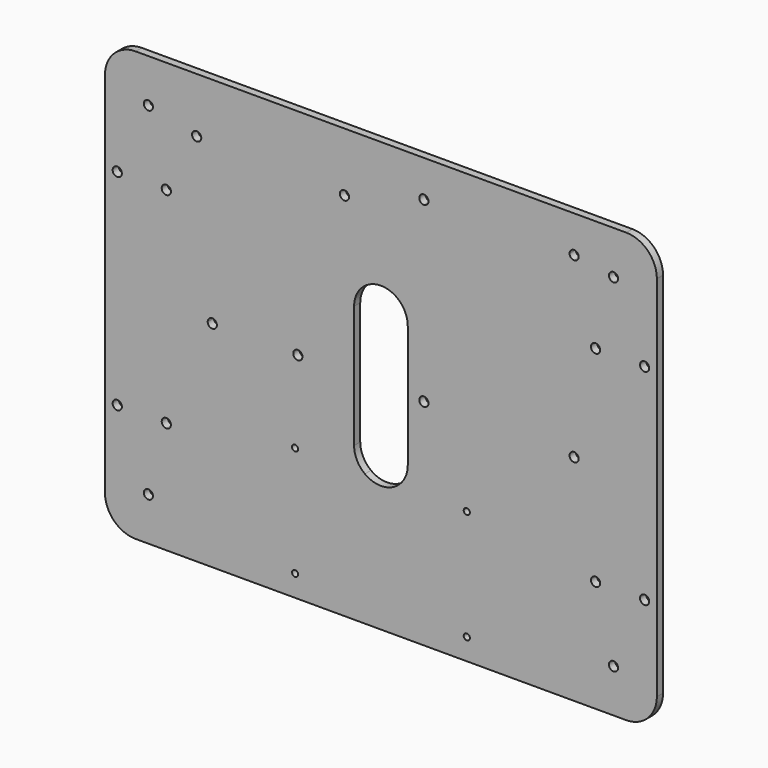
from build123d import *

# Parameters (mm, degrees)
F0_W     = 180
F0_H     = 140
F1_DEPTH = 2.5
F2_R     = 1.5
F3_DEPTH = 5
F4_R     = 10


with BuildPart() as f1:
    # F0 (on Front) → F1 (new body)
    with BuildSketch(Plane.XZ):
        Rectangle(F0_W, F0_H)
    extrude(amount=F1_DEPTH)

    # F2 (on face) → F3 (cut)
    with BuildSketch(Plane.XZ.offset(2.5)):
        with Locations((75.857864, 55.857864)):
            Circle(F2_R)
        with Locations((-75.857864, 55.857864)):
            Circle(F2_R)
        with Locations((75.857864, -55.857864)):
            Circle(F2_R)
        with Locations((-75.857864, -55.857864)):
            Circle(F2_R)
        with BuildLine():
            ThreePointArc((29, -63), (28.707107, -62.292893), (28, -62))
            ThreePointArc((28, -62), (27.292893, -63.707107), (29, -63))
        make_face()
        with BuildLine():
            ThreePointArc((29, -27), (28, -26), (27, -27))
            Line((27, -27), (28, -27))
            Line((28, -27), (28, -28))
            ThreePointArc((28, -28), (28.707107, -27.707107), (29, -27))
        make_face()
        with BuildLine():
            Line((28, -27), (27, -27))
            ThreePointArc((27, -27), (27.292893, -27.707107), (28, -28))
            Line((28, -28), (28, -27))
        make_face()
        with BuildLine():
            ThreePointArc((-27, -63), (-27.292893, -62.292893), (-28, -62))
            Line((-28, -62), (-28, -63))
            Line((-28, -63), (-28, -64))
            ThreePointArc((-28, -64), (-27.292893, -63.707107), (-27, -63))
        make_face()
        with BuildLine():
            Line((-28, -63), (-28, -62))
            ThreePointArc((-28, -62), (-29, -63), (-28, -64))
            Line((-28, -64), (-28, -63))
        make_face()
        with BuildLine():
            ThreePointArc((-28, -28), (-27.292893, -27.707107), (-27, -27))
            Line((-27, -27), (-28, -27))
            Line((-28, -27), (-28, -28))
        make_face()
        with BuildLine():
            Line((-28, -27), (-27, -27))
            ThreePointArc((-27, -27), (-28.707107, -26.292893), (-28, -28))
            Line((-28, -28), (-28, -27))
        make_face()
        with BuildLine():
            Line((-8.75, 20), (-8.75, 0))
            Line((-8.75, 0), (-8.75, -20))
            ThreePointArc((-8.75, -20), (-7.826238, -23.913119), (-5.25, -27))
            Line((-5.25, -27), (5.25, -27))
            ThreePointArc((5.25, -27), (7.826238, -23.913119), (8.75, -20))
            Line((8.75, -20), (8.75, 0))
            Line((8.75, 0), (8.75, 20))
            ThreePointArc((8.75, 20), (0, 28.75), (-8.75, 20))
        make_face()
        with BuildLine():
            Line((5.25, -27), (-5.25, -27))
            ThreePointArc((-5.25, -27), (0, -28.75), (5.25, -27))
        make_face()
        with Locations((-60.1, 52.1)):
            Circle(F2_R)
        with BuildLine():
            ThreePointArc((-10.4, 50.8), (-11.149166, 52.098556), (-12.648331, 52.1))
            ThreePointArc((-12.648331, 52.1), (-12.650834, 49.501444), (-10.4, 50.8))
        make_face()
        with BuildLine():
            ThreePointArc((-25.6, 0), (-27.1, 1.5), (-28.6, 0))
            ThreePointArc((-28.6, 0), (-27.1, -1.5), (-25.6, 0))
        make_face()
        with BuildLine():
            ThreePointArc((-55, 1.5), (-56.06066, 1.06066), (-56.5, 0))
            Line((-56.5, 0), (-55, 0))
            Line((-55, 0), (-55, 1.5))
        make_face()
        with BuildLine():
            Line((-55, 0), (-56.5, 0))
            ThreePointArc((-56.5, 0), (-55, -1.5), (-53.5, 0))
            Line((-53.5, 0), (-55, 0))
        make_face()
        with Locations((-86, 33.5)):
            Circle(F2_R)
        with BuildLine():
            ThreePointArc((-68.5, 33.5), (-70, 35), (-71.5, 33.5))
            ThreePointArc((-71.5, 33.5), (-70, 32), (-68.5, 33.5))
        make_face()
        with BuildLine():
            ThreePointArc((-68.5, -33.5), (-70, -32), (-71.5, -33.5))
            ThreePointArc((-71.5, -33.5), (-70, -35), (-68.5, -33.5))
        make_face()
        with Locations((-86, -33.5)):
            Circle(F2_R)
        with BuildLine():
            Line((-55, 1.5), (-55, 0))
            Line((-55, 0), (-53.5, 0))
            ThreePointArc((-53.5, 0), (-53.93934, 1.06066), (-55, 1.5))
        make_face()
        with BuildLine():
            ThreePointArc((15.5, 0), (15.06066, 1.06066), (14, 1.5))
            ThreePointArc((14, 1.5), (12.93934, -1.06066), (15.5, 0))
        make_face()
        with BuildLine():
            ThreePointArc((14, 56.5), (15.06066, 56.93934), (15.5, 58))
            Line((15.5, 58), (14, 58))
            Line((14, 58), (14, 56.5))
        make_face()
        with BuildLine():
            Line((14, 58), (15.5, 58))
            ThreePointArc((15.5, 58), (12.93934, 59.06066), (14, 56.5))
            Line((14, 56.5), (14, 58))
        make_face()
        with BuildLine():
            ThreePointArc((61.5, 58), (61.93934, 56.93934), (63, 56.5))
            Line((63, 56.5), (63, 58))
            Line((63, 58), (61.5, 58))
        make_face()
        with BuildLine():
            Line((63, 58), (63, 56.5))
            ThreePointArc((63, 56.5), (64.06066, 56.93934), (64.5, 58))
            ThreePointArc((64.5, 58), (63, 59.5), (61.5, 58))
            Line((61.5, 58), (63, 58))
        make_face()
        with BuildLine():
            ThreePointArc((63, 1.5), (61.93934, -1.06066), (64.5, 0))
            Line((64.5, 0), (63, 0))
            Line((63, 0), (63, 1.5))
        make_face()
        with BuildLine():
            Line((63, 0), (64.5, 0))
            ThreePointArc((64.5, 0), (64.06066, 1.06066), (63, 1.5))
            Line((63, 1.5), (63, 0))
        make_face()
        with Locations((70, 33.5)):
            Circle(F2_R)
        with BuildLine():
            ThreePointArc((87.5, 33.5), (86, 35), (84.5, 33.5))
            ThreePointArc((84.5, 33.5), (86, 32), (87.5, 33.5))
        make_face()
        with BuildLine():
            ThreePointArc((87.5, -33.5), (86, -32), (84.5, -33.5))
            ThreePointArc((84.5, -33.5), (86, -35), (87.5, -33.5))
        make_face()
        with Locations((70, -33.5)):
            Circle(F2_R)
    extrude(amount=-F3_DEPTH, mode=Mode.SUBTRACT)

    # F4
    f4_edges = [f1.edges().sort_by_distance(p)[0] for p in [
        (-90, -1.25, 70),
        (-90, -1.25, -70),
        (90, -1.25, -70),
        (90, -1.25, 70),
    ]]
    fillet(f4_edges, radius=F4_R)


solid = f1.part
